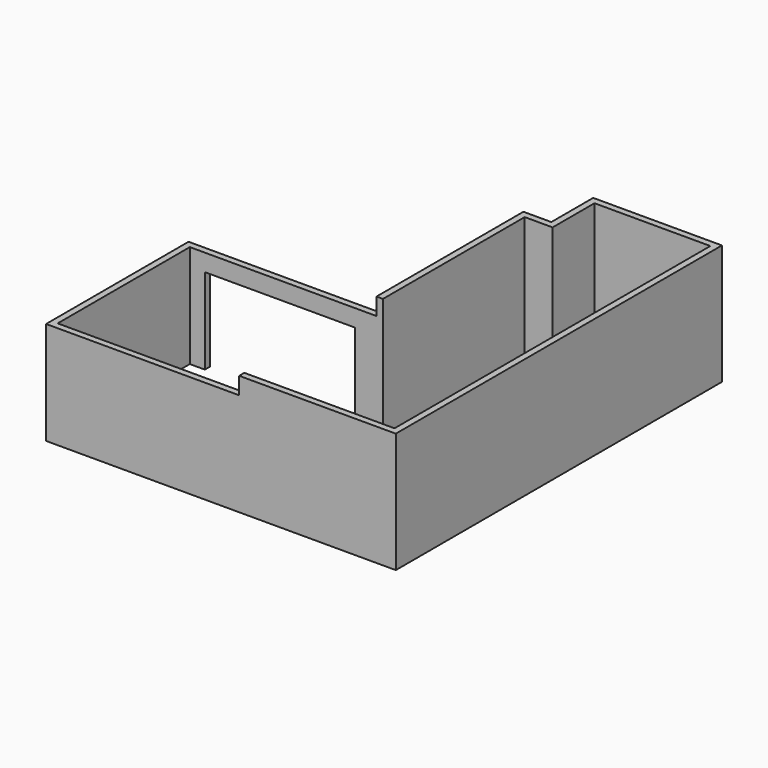
from build123d import *

# Parameters (mm, degrees)
F1_DEPTH = 2800
F2_W     = 4500
F2_H     = 400
F3_DEPTH = 4170
F4_W     = 3500
F4_H     = 2000
F5_DEPTH = 160


with BuildPart() as f1:
    # F0 (on Top) → F1 (new body)
    with BuildSketch(Plane.XY):
        Polygon((1500, 5350), (-1500, 5350), (-1500, 4130), (-2150, 4130), (-2150, 0), (-6650, 0), (-6650, -4150), (1500, -4150), align=None)
        Polygon((-1350, 3980), (-1350, 5200), (1350, 5200), (1350, -4000), (-6500, -4000), (-6500, -150), (-2000, -150), (-2000, 3980), align=None, mode=Mode.SUBTRACT)
    extrude(amount=F1_DEPTH)

    # F2 (on face) → F3 (cut)
    with BuildSketch(Plane(origin=(0, 0, 0), x_dir=(-1, 0, 0), z_dir=(0, 1, 0))):
        with Locations((4400, 2600)):
            Rectangle(F2_W, F2_H)
    extrude(amount=-F3_DEPTH, mode=Mode.SUBTRACT)

    # F4 (on face) → F5 (cut)
    with BuildSketch(Plane(origin=(0, 0, 0), x_dir=(-1, 0, 0), z_dir=(0, 1, 0))):
        with Locations((4400, 1000)):
            Rectangle(F4_W, F4_H)
    extrude(amount=-F5_DEPTH, mode=Mode.SUBTRACT)


solid = f1.part
